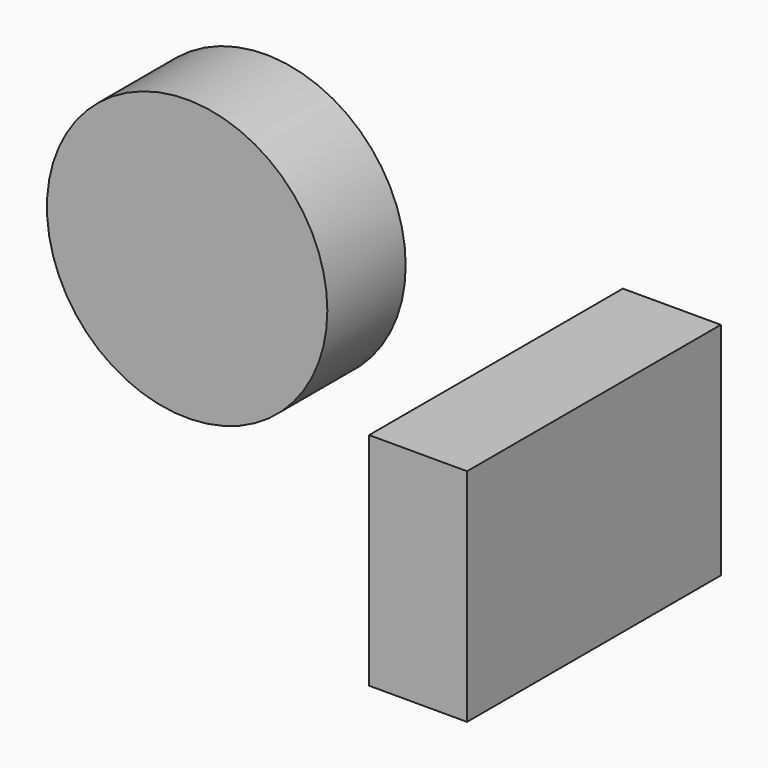
from build123d import *

# Parameters (mm, degrees)
F0_W     = 82.268014
F0_H     = 57.241838
F1_DEPTH = 25.4
F2_R     = 36.362446
F3_DEPTH = 25.4


with BuildPart() as f1:
    # F0 (on Right) → F1 (new body)
    with BuildSketch(Plane.YZ):
        with Locations((-3.21918, 14.826274)):
            Rectangle(F0_W, F0_H)
    extrude(amount=F1_DEPTH)


with BuildPart() as f3:
    # F2 (on Front) → F3 (new body)
    with BuildSketch(Plane.XZ):
        with Locations((-62.366229, 55.720732)):
            Circle(F2_R)
    extrude(amount=F3_DEPTH)


solid = Compound([f1.part, f3.part])
